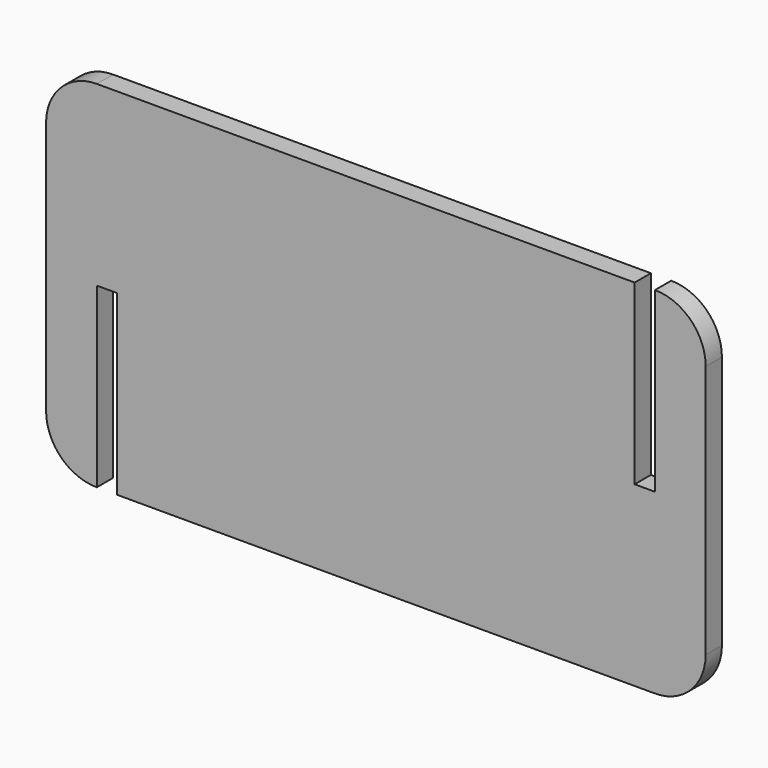
from build123d import *

# Parameters (mm, degrees)
F1_DEPTH = 4


with BuildPart() as f1:
    # F0 (on Front) → F1 (new body)
    with BuildSketch(Plane.XZ):
        with BuildLine():
            Line((51, 35), (-55, 35))
            ThreePointArc((-55, 35), (-62.071068, 32.071068), (-65, 25))
            Line((-65, 25), (-65, -25))
            ThreePointArc((-65, -25), (-62.071068, -32.071068), (-55, -35))
            Line((-55, -35), (-55, 0))
            Line((-55, 0), (-51, 0))
            Line((-51, 0), (-51, -35))
            Line((-51, -35), (55, -35))
            ThreePointArc((55, -35), (62.071068, -32.071068), (65, -25))
            Line((65, -25), (65, 25))
            ThreePointArc((65, 25), (62.071068, 32.071068), (55, 35))
            Line((55, 35), (55, 0))
            Line((55, 0), (51, 0))
            Line((51, 0), (51, 35))
        make_face()
    extrude(amount=F1_DEPTH)


solid = f1.part
